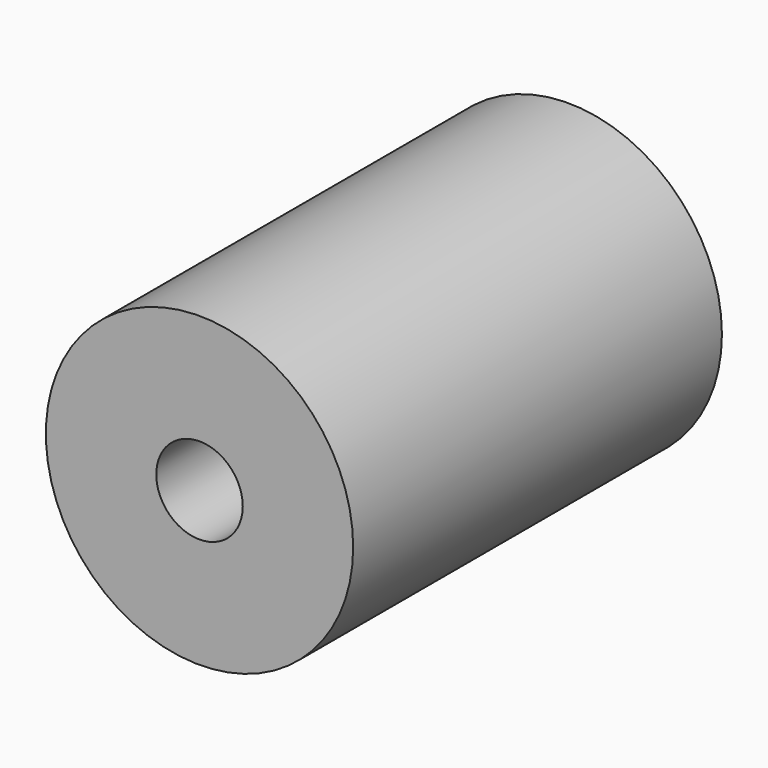
from build123d import *

# Parameters (mm, degrees)
F0_R     = 25.4
F0_R_2   = 7.1501
F1_DEPTH = 76.2
F3_R     = 25.4
F3_R_2   = 7.1501
F4_DEPTH = 76.2


with BuildPart() as f1:
    # F0 (on Right) → F1 (new body)
    with BuildSketch(Plane.YZ):
        Circle(F0_R)
        Circle(F0_R_2, mode=Mode.SUBTRACT)
    extrude(amount=F1_DEPTH)


with BuildPart() as f4:
    # F3 (on Front) → F4 (new body)
    with BuildSketch(Plane.XZ):
        Circle(F3_R)
        Circle(F3_R_2, mode=Mode.SUBTRACT)
    extrude(amount=F4_DEPTH)


solid = f4.part
